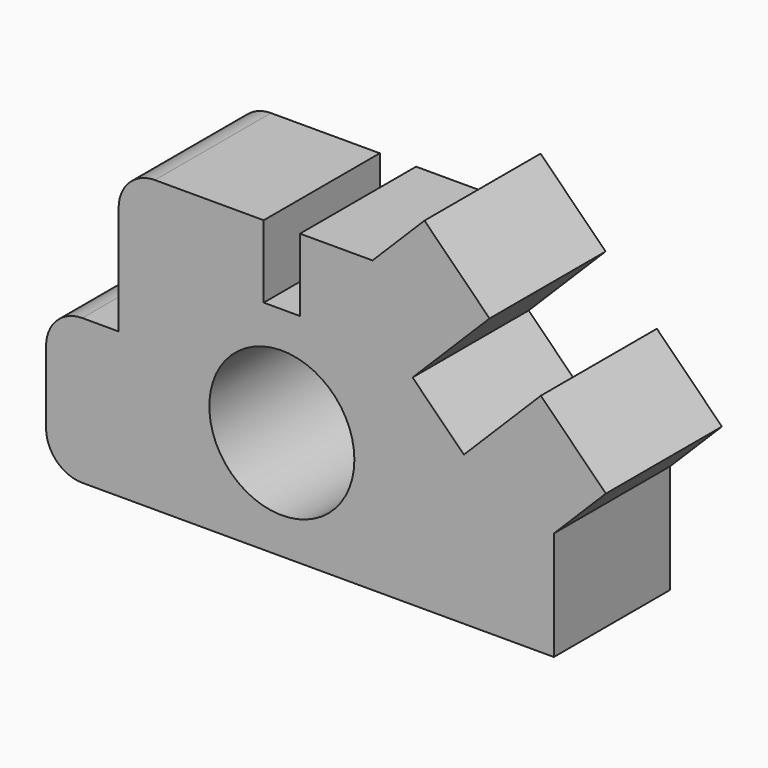
from build123d import *

# Parameters (mm, degrees)
F0_R     = 254
F1_DEPTH = 508


with BuildPart() as f1:
    # F0 (on Front) → F1 (new body)
    with BuildSketch(Plane.XZ):
        with BuildLine():
            Line((-303.187204, 269.370258), (-303.187204, 523.370258))
            Line((-303.187204, 523.370258), (-684.187204, 523.370258))
            ThreePointArc((-684.187204, 523.370258), (-773.989765, 486.172819), (-811.187204, 396.370258))
            Line((-811.187204, 396.370258), (-811.187204, 15.370258))
            Line((-811.187204, 15.370258), (-938.187204, 15.370258))
            ThreePointArc((-938.187204, 15.370258), (-1027.989765, -21.827181), (-1065.187204, -111.629742))
            Line((-1065.187204, -111.629742), (-1065.187204, -365.629742))
            ThreePointArc((-1065.187204, -365.629742), (-1027.989765, -455.432304), (-938.187204, -492.629742))
            Line((-938.187204, -492.629742), (712.812796, -492.629742))
            Line((712.812796, -492.629742), (712.812796, -111.629742))
            Line((712.812796, -111.629742), (894.812984, 70.370445))
            Line((894.812984, 70.370445), (667.115545, 298.067884))
            Line((667.115545, 298.067884), (397.707861, 28.6602))
            Line((397.707861, 28.6602), (218.102739, 208.265323))
            Line((218.102739, 208.265323), (487.510422, 477.673006))
            Line((487.510422, 477.673006), (259.812984, 705.370445))
            Line((259.812984, 705.370445), (77.812796, 523.370258))
            Line((77.812796, 523.370258), (-176.187204, 523.370258))
            Line((-176.187204, 523.370258), (-176.187204, 269.370258))
            Line((-176.187204, 269.370258), (-303.187204, 269.370258))
        make_face()
        with Locations((-239.687204, -111.629742)):
            Circle(F0_R, mode=Mode.SUBTRACT)
    extrude(amount=F1_DEPTH)


solid = f1.part
